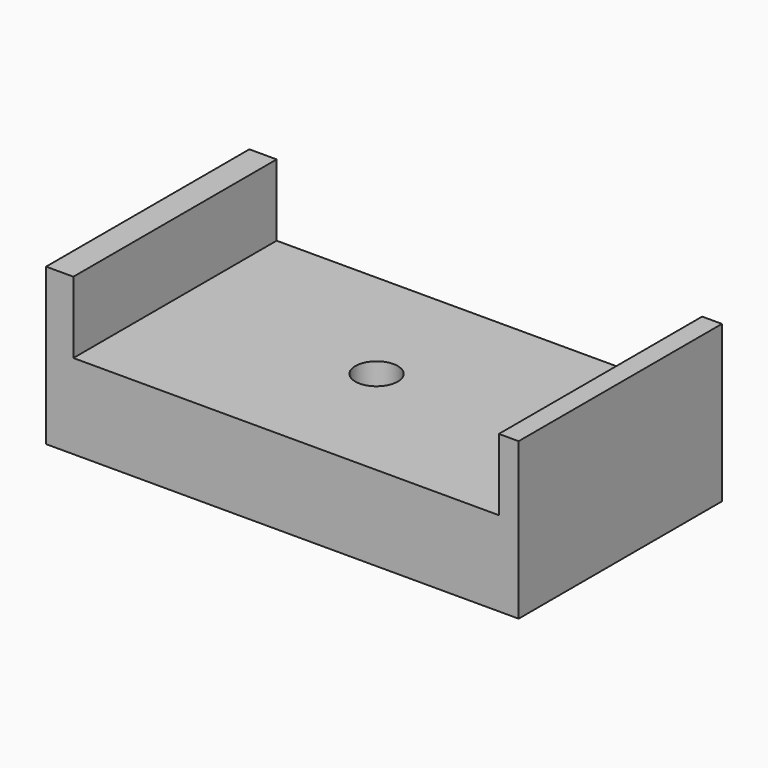
from build123d import *

# Parameters (mm, degrees)
F1_DEPTH  = 76.2
F1_FACE_W = 12.7
F1_FACE_H = 76.2
F2_DEPTH  = 15.875
F3_R      = 6.35
F4_DEPTH  = 15.875


with BuildPart() as f1:
    # F0 (on Front) → F1 (new body)
    with BuildSketch(Plane.XZ):
        Polygon((-60.43807, 31.100702), (-68.62498, 31.100702), (-68.62498, -15.762298), (73.093257, -15.762298), (73.093257, 31.100702), (67.1648, 31.100702), (67.1648, 9.637702), (6.35, 9.637702), (6.35, -6.237298), (-6.35, -6.237298), (-6.35, 9.637702), (-60.43807, 9.637702), align=None)
    extrude(amount=F1_DEPTH)

    # F1_face (on face) → F2 (join)
    with BuildSketch(Plane(origin=(0, -38.1, -6.237298), x_dir=(1, 0, 0), z_dir=(0, 0, 1))):
        Rectangle(F1_FACE_W, F1_FACE_H)
    extrude(amount=F2_DEPTH)

    # F3 (on face) → F4 (cut)
    with BuildSketch(Plane.XY.offset(9.637702)):
        with Locations((0, -38.1)):
            Circle(F3_R)
    extrude(amount=-F4_DEPTH, mode=Mode.SUBTRACT)


solid = f1.part
